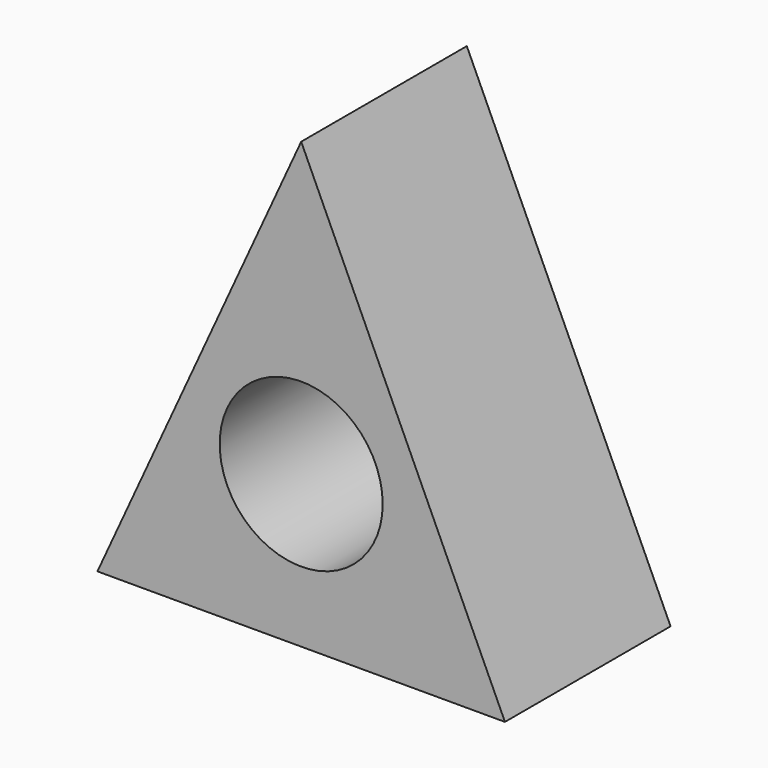
from build123d import *

# Parameters (mm, degrees)
F0_R     = 10
F1_DEPTH = 25.4


with BuildPart() as f1:
    # F0 (on Front) → F1 (new body)
    with BuildSketch(Plane.XZ):
        Polygon((0, 35.900475), (-25, -18.643085), (25, -18.643085), align=None)
        Circle(F0_R, mode=Mode.SUBTRACT)
    extrude(amount=F1_DEPTH)


solid = f1.part
